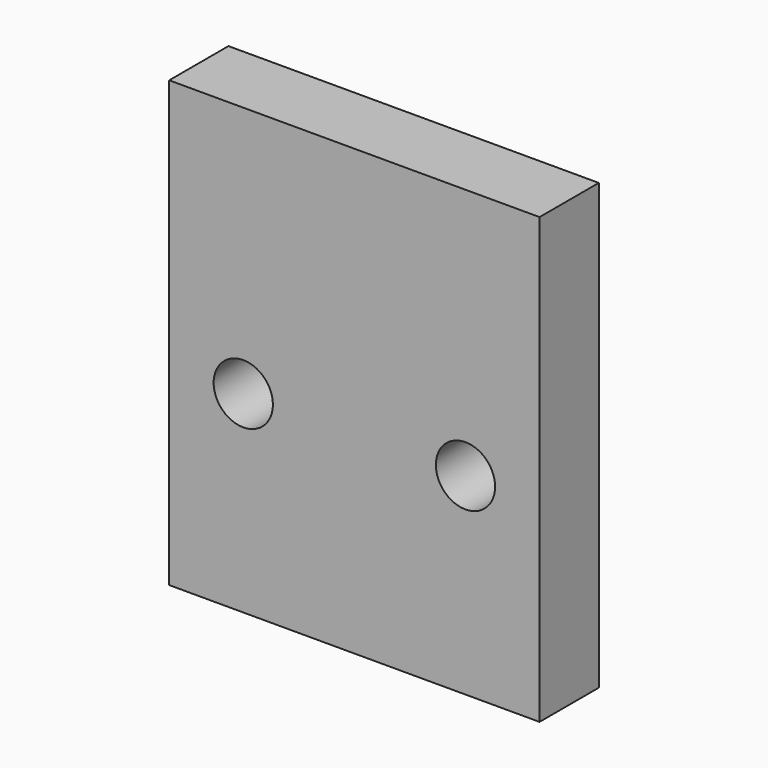
from build123d import *

# Parameters (mm, degrees)
F0_W     = 25
F0_H     = 30
F0_R     = 2
F1_DEPTH = 5


with BuildPart() as f1:
    # F0 (on Front) → F1 (new body)
    with BuildSketch(Plane.XZ):
        Rectangle(F0_W, F0_H)
        with Locations((-7.5, -2)):
            Circle(F0_R, mode=Mode.SUBTRACT)
        with Locations((7.5, -2)):
            Circle(F0_R, mode=Mode.SUBTRACT)
    extrude(amount=-F1_DEPTH)


solid = f1.part
